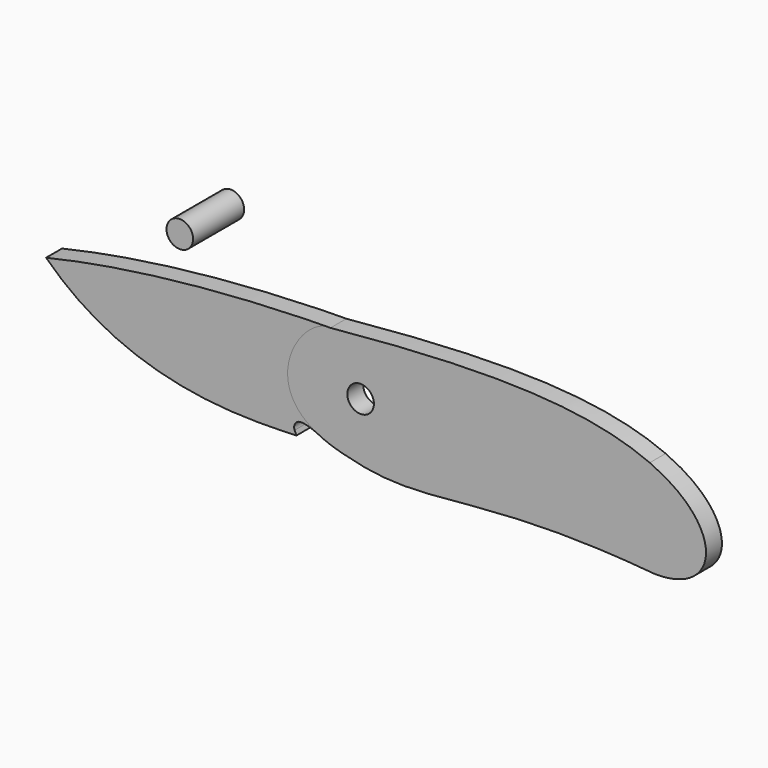
from build123d import *

# Parameters (mm, degrees)
F0_R     = 3.175
F1_DEPTH = 4.7498
F2_R     = 3.175
F3_DEPTH = 4.7498
F4_R     = 3.175
F5_DEPTH = 15.24


with BuildPart() as f1:
    # F0 (on Front) → F1 (new body)
    with BuildSketch(Plane.XZ):
        with BuildLine():
            add(Edge.make_bspline(
                [(0, 12.7), (-27.778189, 12.7), (-53.683318, 10.3229), (-75.140081, 5.262344)],
                knots=[0, 0, 0, 0, 75.507288, 75.507288, 75.507288, 75.507288], degree=3))
            add(Edge.make_bspline(
                [(-75.140081, 5.262344), (-54.227666, -15.259189), (-25.261352, -12.895799), (-15.357332, -12.708435)],
                knots=[0, 0, 0, 0, 61.183257, 61.183257, 61.183257, 61.183257], degree=3))
            Line((-15.357332, -12.708435), (-15.760655, -11.704082))
            ThreePointArc((-15.760655, -11.704082), (-15.60266, -10.223394), (-14.2875, -9.525))
            add(Edge.make_bspline(
                [(-14.2875, -9.525), (-11.05533, -9.525), (-7.879092, -12.7), (0, -12.7)],
                knots=[0, 0, 0, 0, 14.636027, 14.636027, 14.636027, 14.636027], degree=3))
            Line((0, -12.7), (9.838992, -12.7))
            ThreePointArc((9.838992, -12.7), (12.084056, -11.770064), (13.013992, -9.525))
            Line((13.013992, -9.525), (13.013992, -1.5875))
            ThreePointArc((13.013992, -1.5875), (13.47896, -0.464968), (14.601492, 0))
            Line((14.601492, 0), (14.822604, 0))
            ThreePointArc((14.822604, 0), (15.945136, 0.464968), (16.410104, 1.5875))
            Line((16.410104, 1.5875), (16.410104, 11.1125))
            ThreePointArc((16.410104, 11.1125), (15.945136, 12.235032), (14.822604, 12.7))
            Line((14.822604, 12.7), (0, 12.7))
        make_face()
        Circle(F0_R, mode=Mode.SUBTRACT)
    extrude(amount=F1_DEPTH)


with BuildPart() as f3:
    # F2 (on Front) → F3 (new body)
    with BuildSketch(Plane.XZ):
        with BuildLine():
            add(Edge.make_bspline(
                [(-8.695447, 12.473822), (27.181917, 15.904326), (52.762751, 16.174525), (69.062658, 9.043317)],
                knots=[0, 0, 0, 0, 77.833741, 77.833741, 77.833741, 77.833741], degree=3))
            add(Edge.make_bspline(
                [(-8.695447, 12.473822), (-16.128207, 10.615632), (-25.990908, -7.680394), (-3.835565, -12.969089)],
                knots=[0, 0, 0, 0, 25.902898, 25.902898, 25.902898, 25.902898], degree=3))
            add(Edge.make_bspline(
                [(-3.835565, -12.969089), (16.175712, -18.543659), (25.961988, -9.922196), (70.349097, -13.969653)],
                knots=[0, 0, 0, 0, 74.19141, 74.19141, 74.19141, 74.19141], degree=3))
            add(Edge.make_bspline(
                [(69.062658, 9.043317), (87.558728, 0.986704), (85.999258, -14.104567), (70.349097, -13.969653)],
                knots=[0, 0, 0, 0, 23.048899, 23.048899, 23.048899, 23.048899], degree=3))
        make_face()
        Circle(F2_R, mode=Mode.SUBTRACT)
    extrude(amount=F3_DEPTH)


with BuildPart() as f5:
    # F4 (on Front) → F5 (new body)
    with BuildSketch(Plane.XZ):
        with Locations((-34.805175, 27.611218)):
            Circle(F4_R)
    extrude(amount=F5_DEPTH)


solid = Compound([f1.part, f3.part, f5.part])
